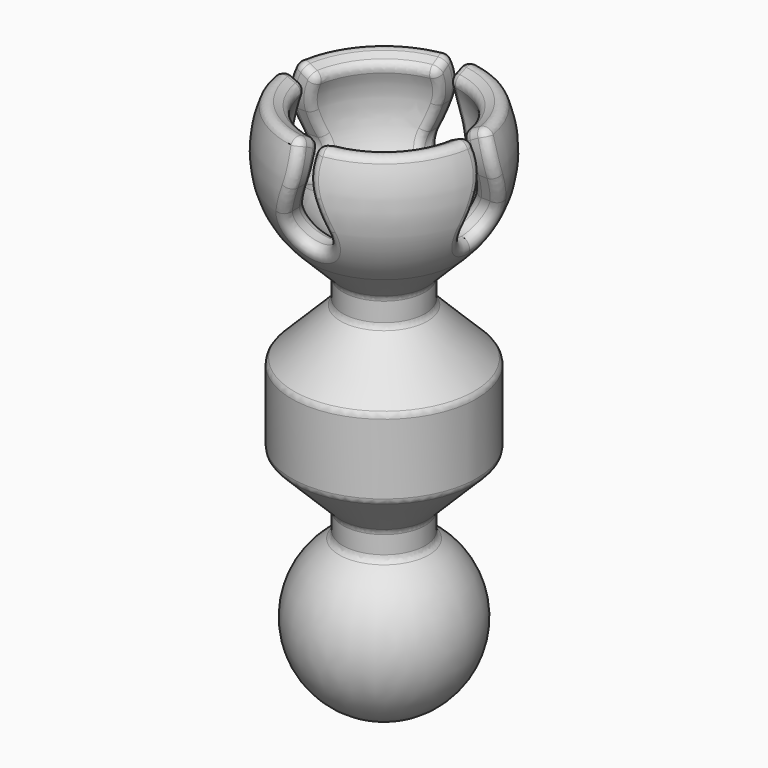
from build123d import *

# Parameters (mm, degrees)
POCKET_DEPTH       = 128.099715
POLARPATTERN_COUNT = 4
FILLET_R           = 0.8


with BuildPart() as part:
    # Sketch → Revolution (revolve)
    with BuildSketch(Plane.XZ):
        with BuildLine():
            ThreePointArc((4, -46.928203), (8, -40), (4, -33.071797))
            Line((4, -30.571797), (4, -33.071797))
            Line((9, -25.571797), (4, -30.571797))
            Line((9, -18.087821), (9, -25.571797))
            Line((4, -13.087821), (9, -18.087821))
            Line((4, -10.587821), (4, -13.087821))
            Line((7.153911, -7.433911), (4, -10.587821))
            ThreePointArc((7.153911, -7.433911), (10.05737, -1.796495), (9.147458, 4.47906))
            Line((9.147458, 4.47906), (6.990352, 3.426969))
            ThreePointArc((1.7, -7.8511), (7.042744, -3.477449), (6.990352, 3.426969))
            Line((1.7, -7.8511), (1.7, -46.928203))
            Line((4, -46.928203), (1.7, -46.928203))
        make_face()
    revolve(axis=Axis((0, 0, 0), (0, 0, 1)))

    # Sketch001 → Pocket (cut, through all)
    with BuildSketch(Plane.YZ):
        with BuildLine():
            ThreePointArc((-1.879385, -2.315958), (0, -5), (1.879385, -2.315958))
            Line((1.879385, -2.315958), (0.989044, 0.130233))
            ThreePointArc((1.254334, 5.5), (0.579635, 2.841896), (0.989044, 0.130233))
            Line((-1.254334, 5.5), (1.254334, 5.5))
            ThreePointArc((-0.989044, 0.130233), (-0.579635, 2.841896), (-1.254334, 5.5))
            Line((-1.879385, -2.315958), (-0.989044, 0.130233))
        make_face()
    pocket = extrude(amount=POCKET_DEPTH, mode=Mode.SUBTRACT)

    # PolarPattern: Pocket ×4 about axis
    polarpattern_axis = Axis((0, 0, 0), (0, 0, 1))
    for i in range(1, POLARPATTERN_COUNT):
        add(pocket.rotate(polarpattern_axis, i * 360 / POLARPATTERN_COUNT), mode=Mode.SUBTRACT)

    # Fillet
    fillet_edges = [part.edges().sort_by_distance(p)[0] for p in [
        (-4.942926, 4.942926, 3.426969),
        (-0.725285, 8.036476, 3.953128),
        (-6.46823, 6.46823, 4.47906),
        (-8.036476, 0.725285, 3.953128),
        (-4.942926, -4.942926, 3.426969),
        (-8.036476, -0.725285, 3.953128),
        (-6.46823, -6.46823, 4.47906),
        (-0.725285, -8.036476, 3.953128),
        (4.942926, 4.942926, 3.426969),
        (8.036476, 0.725285, 3.953128),
        (6.46823, 6.46823, 4.47906),
        (0.725285, 8.036476, 3.953128),
        (4.942926, -4.942926, 3.426969),
        (0.725285, -8.036476, 3.953128),
        (6.46823, -6.46823, 4.47906),
        (8.036476, -0.725285, 3.953128),
        (-1.7, 0, -7.8511),
        (4.14464, 0, -6.797447),
        (6.501558, -1.664102, -4.109399),
        (7.597596, -1.441329, -1.11241),
        (7.648128, -0.673571, 1.31332),
        (7.171383, -0.587218, 2.970948),
        (0.606311, -7.550861, 1.803299),
        (1.441329, -7.597596, -1.11241),
        (1.969804, -7.106736, -2.653774),
        (1.357784, -6.345245, -4.468477),
        (-1.725478, -6.543749, -4.011298),
        (-1.441329, -7.597596, -1.11241),
        (-0.673571, -7.648128, 1.31332),
        (-0.587218, -7.171383, 2.970948),
        (-7.550861, -0.606311, 1.803299),
        (-7.597596, -1.441329, -1.11241),
        (-7.106736, -1.969804, -2.653774),
        (-6.345245, -1.357784, -4.468477),
        (-6.543749, 1.725478, -4.011298),
        (-7.597596, 1.441329, -1.11241),
        (-7.648128, 0.673571, 1.31332),
        (-7.171383, 0.587218, 2.970948),
        (-0.606311, 7.550861, 1.803299),
        (-1.441329, 7.597596, -1.11241),
        (-1.969804, 7.106736, -2.653774),
        (-1.357784, 6.345245, -4.468477),
        (1.725478, 6.543749, -4.011298),
        (1.441329, 7.597596, -1.11241),
        (0.673571, 7.648128, 1.31332),
        (0.587218, 7.171383, 2.970948),
        (7.550861, 0.606311, 1.803299),
        (7.597596, 1.441329, -1.11241),
        (7.106736, 1.969804, -2.653774),
        (6.3814, 1.441844, -4.386032),
        (-7.153911, 0, -7.433911),
        (8.14745, 0, -6.283231),
        (9.23407, -1.653223, -4.125545),
        (10.047035, -1.438282, -1.104038),
        (10.084631, -0.674783, 1.306368),
        (9.535343, -0.646606, 3.519478),
        (0.572686, -9.894065, 2.356239),
        (1.438282, -10.047035, -1.104038),
        (1.969707, -9.67823, -2.65322),
        (1.379011, -9.134485, -4.448561),
        (-1.691745, -9.252106, -4.06677),
        (-1.438282, -10.047035, -1.104038),
        (-0.674783, -10.084631, 1.306368),
        (-0.646606, -9.535343, 3.519478),
        (-9.894065, -0.572686, 2.356239),
        (-10.047035, -1.438282, -1.104038),
        (-9.67823, -1.969707, -2.65322),
        (-9.114201, -1.306785, -4.514038),
        (-9.27743, 1.741136, -3.984097),
        (-10.047035, 1.438282, -1.104038),
        (-10.084631, 0.674783, 1.306368),
        (-9.535343, 0.646606, 3.519478),
        (-0.572686, 9.894065, 2.356239),
        (-1.438282, 10.047035, -1.104038),
        (-1.969707, 9.67823, -2.65322),
        (-1.306785, 9.114201, -4.514038),
        (1.741136, 9.27743, -3.984097),
        (1.438282, 10.047035, -1.104038),
        (0.674783, 10.084631, 1.306368),
        (0.646606, 9.535343, 3.519478),
        (9.894065, 0.572686, 2.356239),
        (10.047035, 1.438282, -1.104038),
        (9.67823, 1.969707, -2.65322),
        (9.149886, 1.429487, -4.398773),
        (-4, 0, -10.587821),
        (-4, 0, -13.087821),
        (-9, 0, -18.087821),
        (-9, 0, -25.571797),
        (-4, 0, -30.571797),
        (-4, 0, -33.071797),
    ]]
    fillet(fillet_edges, radius=FILLET_R)


solid = part.part
